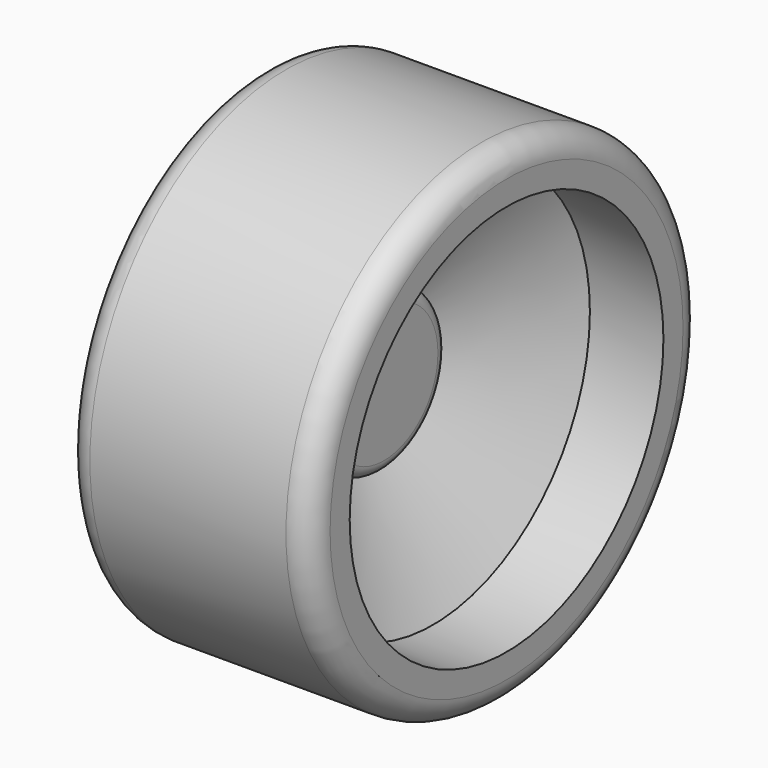
from build123d import *

# Parameters (mm, degrees)
F2_R     = 1.15
F3_DEPTH = 25
F4_R     = 2
F7_R     = 6.5
F7_R_2   = 1.15
F8_DEPTH = 3
F9_R     = 1


with BuildPart() as f1:
    # F0 (on Top) → F1 (revolve)
    with BuildSketch(Plane.XY):
        Polygon((0, 20), (0, 0), (5, 0), (14, 16), (20, 16), (20, 20), align=None)
    revolve(axis=Axis((2.5, 0, 0), (-1, 0, 0)))

    # F2 (on face) → F3 (cut)
    with BuildSketch(Plane(origin=(0, 0, 0), x_dir=(0, -1, 0), z_dir=(-1, 0, 0))):
        Circle(F2_R)
    extrude(amount=-F3_DEPTH, mode=Mode.SUBTRACT)

    # F4
    f4_edges = [f1.edges().sort_by_distance(p)[0] for p in [
        (20, -20, 0),
        (0, -20, 0),
    ]]
    fillet(f4_edges, radius=F4_R)

    # F7 (on offset) → F8 (join)
    with BuildSketch(Plane.YZ.offset(7)):
        Circle(F7_R)
        Circle(F7_R_2, mode=Mode.SUBTRACT)
        Circle(F7_R_2)
    extrude(amount=F8_DEPTH)

    # F9
    f9_edges = [f1.edges().sort_by_distance(p)[0] for p in [
        (10, -6.5, 0),
    ]]
    fillet(f9_edges, radius=F9_R)


solid = f1.part
